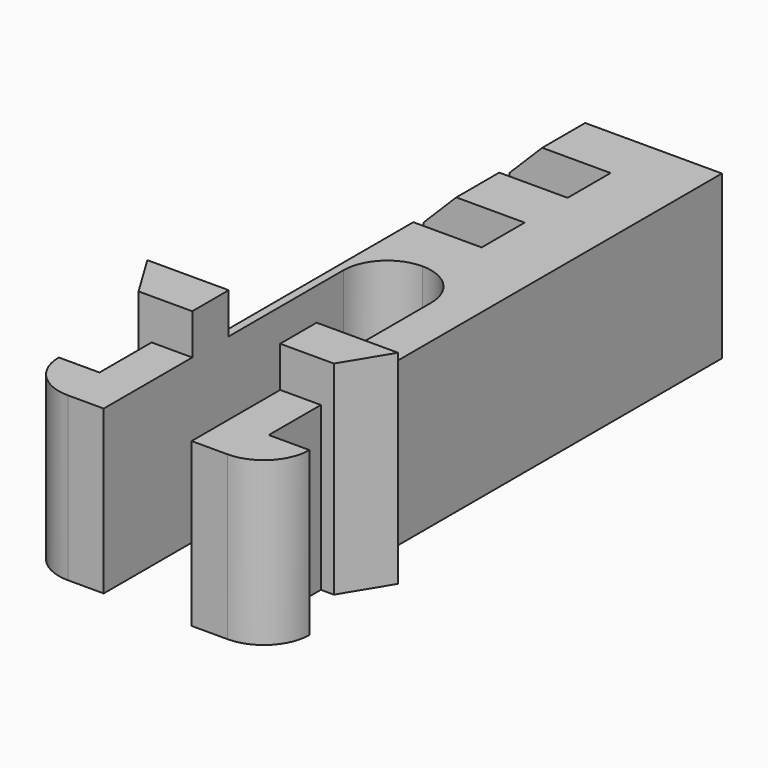
from build123d import *

# Parameters (mm, degrees)
PAD017_DEPTH           = 5
PAD020_DEPTH           = 6.25
SKETCH040_W            = 5.2
SKETCH040_H            = 1.65
PAD022_DEPTH           = 2.1
SKETCH041_W            = 2.1
SKETCH041_H            = 1.65
PAD023_DEPTH           = 5
SKETCH042_W            = 5.2
SKETCH042_H            = 1.65
PAD024_DEPTH           = 5
LINEARPATTERN010_COUNT = 2
LINEARPATTERN010_PITCH = 3.3
CHAMFER_SIZE           = 1


with BuildPart() as obj1:
    # Sketch034 → Pad017 (new body)
    with BuildSketch(Plane.XY):
        with BuildLine():
            Line((-1.35, -1.8), (-1.35, 6))
            ThreePointArc((0, 7.35), (-0.954594, 6.954594), (-1.35, 6))
            Line((0, 9), (0, 7.35))
            Line((-2.6, 9), (0, 9))
            Line((-2.6, -1.8), (-2.6, 9))
            Line((-3.85, -1.8), (-2.6, -1.8))
            ThreePointArc((-3.85, -1.8), (-3.439949, -2.789949), (-2.45, -3.2))
            Line((-1.35, -3.2), (-2.45, -3.2))
            Line((-1.35, -1.8), (-1.35, -3.2))
        make_face()
    extrude(amount=PAD017_DEPTH)

    # Sketch037 → Pad020 (join)
    with BuildSketch(Plane.XY):
        Polygon((-1.35, 0.2), (-1.35, 1.6), (-2.6, 1.6), (-3.85, 1.6), (-3, 0.2), (-2.6, 0.2), align=None)
    extrude(amount=PAD020_DEPTH)


with BuildPart() as obj2:
    # Mirror001: instance of _obj1
    add(obj1.part.mirror(Plane(origin=(0, 0, 0), x_dir=(0, 1, 0), z_dir=(-1, 0, 0))))


with BuildPart() as body012:
    # Fusion001 base: copy of _obj1
    add(obj1.part)

    # Fusion001: union _obj2)
    add(obj2.part)

    # Sketch040 → Pad022 (new body)
    with BuildSketch(Plane.XY):
        with Locations((0, 9.825)):
            Rectangle(SKETCH040_W, SKETCH040_H)
    pad022 = extrude(amount=PAD022_DEPTH)

    # Sketch041 → Pad023 (join)
    with BuildSketch(Plane.XY):
        with Locations((1.55, 9.825)):
            Rectangle(SKETCH041_W, SKETCH041_H)
    pad023 = extrude(amount=PAD023_DEPTH)

    # Sketch042 → Pad024 (join)
    with BuildSketch(Plane.XY):
        with Locations((0, 11.475)):
            Rectangle(SKETCH042_W, SKETCH042_H)
    pad024 = extrude(amount=PAD024_DEPTH)

    # LinearPattern010: Pad024, Pad023, Pad022 ×2
    with Locations(*[(0, i * LINEARPATTERN010_PITCH, 0) for i in range(1, LINEARPATTERN010_COUNT)]):
        add(pad024)
        add(pad023)
        add(pad022)

    # Chamfer
    chamfer_edges = [body012.edges().sort_by_distance(p)[0] for p in [
        (-2.6, 5.3, 5),
        (-2.6, 11.475, 5),
        (-2.6, 14.775, 5),
    ]]
    chamfer(chamfer_edges, length=CHAMFER_SIZE)


solid = body012.part
